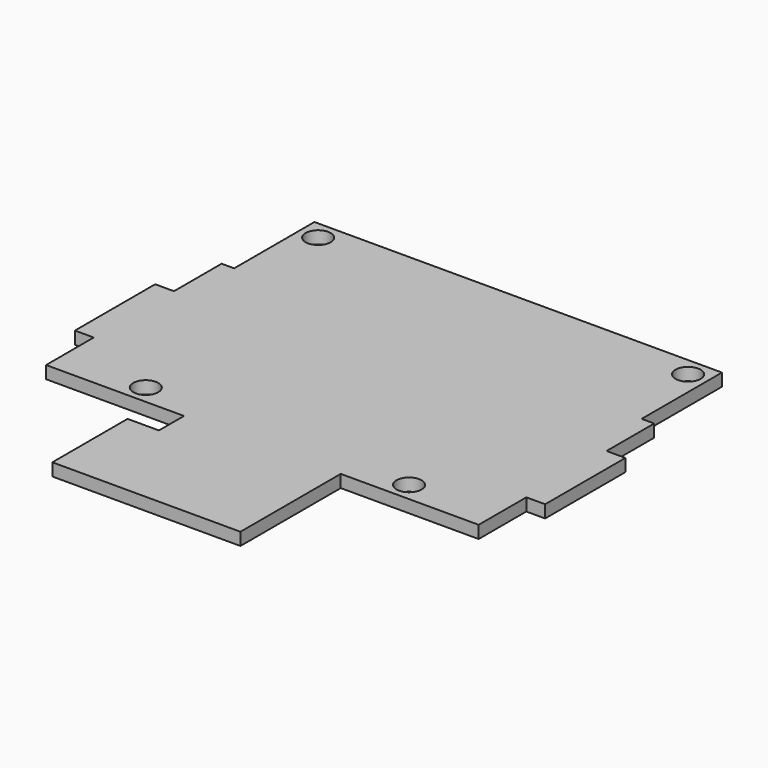
from build123d import *

# Parameters (mm, degrees)
F0_R     = 2
F1_DEPTH = 2


with BuildPart() as f1:
    # F0 (on Top) → F1 (new body)
    with BuildSketch(Plane.XY):
        Polygon((32.5, 9.5), (32.5, 25.5), (-32.5, 25.5), (-32.5, 9.5), (-32.5, -25.5), (-12.5, -25.5), (12.5, -25.5), (32.5, -25.5), align=None)
        with Locations((-21, -22.5)):
            Circle(F0_R, mode=Mode.SUBTRACT)
        with Locations((21, -22.5)):
            Circle(F0_R, mode=Mode.SUBTRACT)
        with Locations((-29.5, 22.5)):
            Circle(F0_R, mode=Mode.SUBTRACT)
        with Locations((29.5, 22.5)):
            Circle(F0_R, mode=Mode.SUBTRACT)
        Polygon((34.5, 9.5), (32.5, 9.5), (32.5, -25.5), (34.5, -25.5), (34.5, -16), (37.5, -16), (37.5, 0), (34.5, 0), align=None)
        Polygon((-32.5, -25.5), (-32.5, 9.5), (-34.5, 9.5), (-34.5, 0), (-37.5, 0), (-37.5, -16), (-34.5, -16), (-34.5, -25.5), align=None)
        Polygon((12.5, -45.5), (12.5, -25.5), (-12.5, -25.5), (-12.5, -30.5), (-17.5, -30.5), (-17.5, -45.5), align=None)
    extrude(amount=F1_DEPTH)


solid = f1.part
